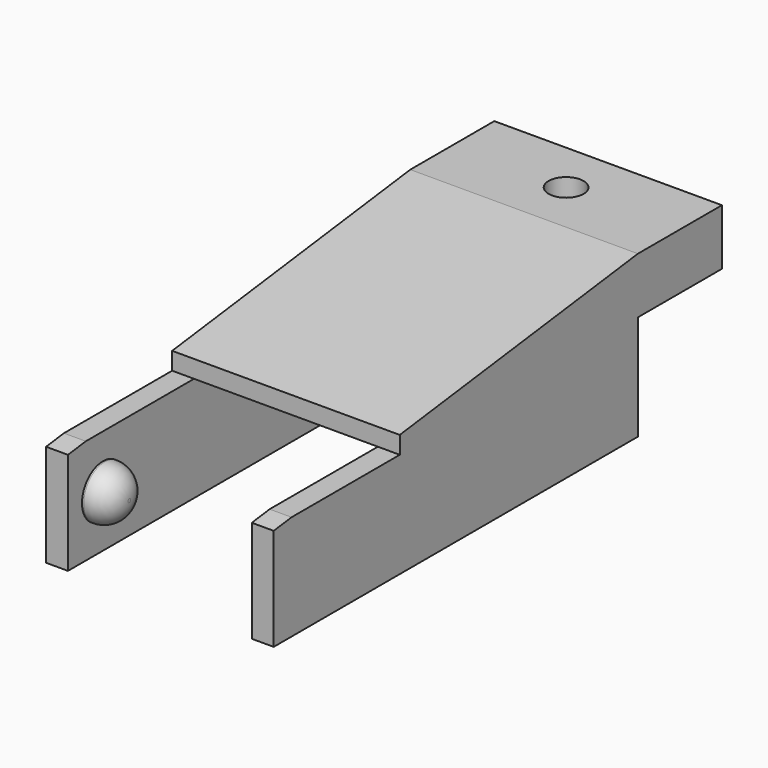
from build123d import *

# Parameters (mm, degrees)
F1_DEPTH  = 13
F2_R      = 1
F3_DEPTH  = 9.201
F4_W      = 10.5
F4_H      = 6
F5_DEPTH  = 32.001
F6_R      = 1.5
F7_DEPTH  = 1.5
F8_R      = 1.4
F9_R      = 1.5
F10_DEPTH = 1.5
F11_R     = 1.4
F13_DEPTH = 13.001


with BuildPart() as f1:
    # F0 (on Right) → F1 (new body)
    with BuildSketch(Plane.YZ):
        Polygon((0, -6), (0, 0), (-17, 0), (-26, 0), (-26, -6), align=None)
        Polygon((-17, 0), (0, 0), (6, 0), (6, 3.2), (0, 3.2), (-17, 1), align=None)
    extrude(amount=F1_DEPTH)

    # F2 (on face) → F3 (cut, through all)
    with BuildSketch(Plane.XY.offset(3.2)):
        with Locations((6.5, 3.0000000261)):
            Circle(F2_R)
    extrude(amount=-F3_DEPTH, mode=Mode.SUBTRACT)

    # F4 (on face) → F5 (cut, through all)
    with BuildSketch(Plane.XZ.offset(26)):
        with Locations((6.5, -3)):
            Rectangle(F4_W, F4_H)
    extrude(amount=-F5_DEPTH, mode=Mode.SUBTRACT)

    # F6 (on face) → F7 (join)
    with BuildSketch(Plane.YZ.offset(1.25)):
        with Locations((-23.5, -3)):
            Circle(F6_R)
    extrude(amount=F7_DEPTH)

    # F8
    f8_edges = [f1.edges().sort_by_distance(p)[0] for p in [
        (2.75, -25, -3),
    ]]
    fillet(f8_edges, radius=F8_R)

    # F9 (on face) → F10 (join)
    with BuildSketch(Plane(origin=(11.75, 0, 0), x_dir=(0, -1, 0), z_dir=(-1, 0, 0))):
        with Locations((23.5, -3)):
            Circle(F9_R)
    extrude(amount=F10_DEPTH)

    # F11
    f11_edges = [f1.edges().sort_by_distance(p)[0] for p in [
        (10.25, -22, -3),
    ]]
    fillet(f11_edges, radius=F11_R)

    # F12 (on face) → F13 (cut, through all)
    with BuildSketch(Plane(origin=(0, 0, 0), x_dir=(0, -1, 0), z_dir=(-1, 0, 0))):
        Polygon((26, 0), (24.7272727273, 0), (26, -0.1647058824), align=None)
    extrude(amount=-F13_DEPTH, mode=Mode.SUBTRACT)


solid = f1.part
